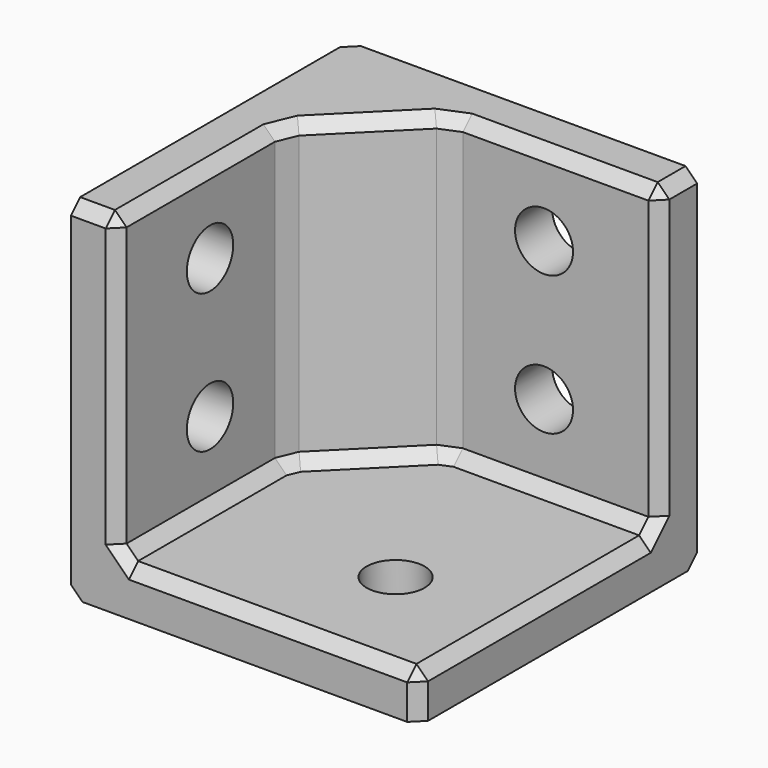
from build123d import *

# Parameters (mm, degrees)
SKETCH_W           = 30
SKETCH_H           = 30
PAD_DEPTH          = 30
THICKNESS_T        = -4
SKETCH001_R        = 2.5
POCKET_DEPTH       = 5
POLARPATTERN_COUNT = 2
POLARPATTERN_ANGLE = 90
CYLINDER_R         = 2.5
CYLINDER_DEPTH     = 10
CHAMFER_SIZE       = 8
CHAMFER001_SIZE    = 1


with BuildPart() as part:
    # Sketch → Pad (new body)
    with BuildSketch(Plane.XY):
        with Locations((15, -15)):
            Rectangle(SKETCH_W, SKETCH_H)
    extrude(amount=PAD_DEPTH)

    # Thickness
    thickness_openings = [part.faces().sort_by_distance(p)[0] for p in [
        (30, -15, 15),
        (15, -30, 15),
        (15, -15, 30),
    ]]
    offset(amount=THICKNESS_T, openings=thickness_openings)

    # Sketch001 → Pocket (cut, symmetric)
    with BuildSketch(Plane(origin=(0, 0, 2), x_dir=(0, 1, 0), z_dir=(1, 0, 0))):
        with Locations((-20, 21)):
            Circle(SKETCH001_R)
        with Locations((-20, 9)):
            Circle(SKETCH001_R)
    pocket = extrude(amount=POCKET_DEPTH, both=True, mode=Mode.SUBTRACT)

    # PolarPattern: Pocket ×2 about axis
    polarpattern_axis = Axis((0, 0, 2), (0, 0, 1))
    for i in range(1, POLARPATTERN_COUNT):
        add(pocket.rotate(polarpattern_axis, i * POLARPATTERN_ANGLE / (POLARPATTERN_COUNT - 1)), mode=Mode.SUBTRACT)

    # Cylinder → Cylinder (cut)
    with BuildSketch(Plane(origin=(20, -20, 0), x_dir=(1, 0, 0), z_dir=(0, 0, 1))):
        Circle(CYLINDER_R)
    extrude(amount=CYLINDER_DEPTH, mode=Mode.SUBTRACT)

    # Chamfer
    chamfer_edges = [part.edges().sort_by_distance(p)[0] for p in [
        (4, -4, 17),
    ]]
    chamfer(chamfer_edges, length=CHAMFER_SIZE)

    # Chamfer001
    chamfer001_edges = [part.edges().sort_by_distance(p)[0] for p in [
        (4, -21, 30),
        (8, -8, 30),
        (2, -30, 30),
        (21, -4, 30),
        (30, -2, 30),
        (4, -21, 4),
        (4, -12, 17),
        (4, -30, 17),
        (8, -8, 4),
        (12, -4, 17),
        (30, -30, 2),
        (17, -30, 4),
        (21, -4, 4),
        (30, -4, 17),
        (0, -15, 0),
        (0, 0, 15),
        (30, -17, 4),
        (15, 0, 0),
        (2, -17.5, 23),
        (2, -17.5, 11),
        (17.5, -2, 23),
        (17.5, -2, 11),
        (22.5, -20, 2),
    ]]
    chamfer(chamfer001_edges, length=CHAMFER001_SIZE)


solid = part.part
